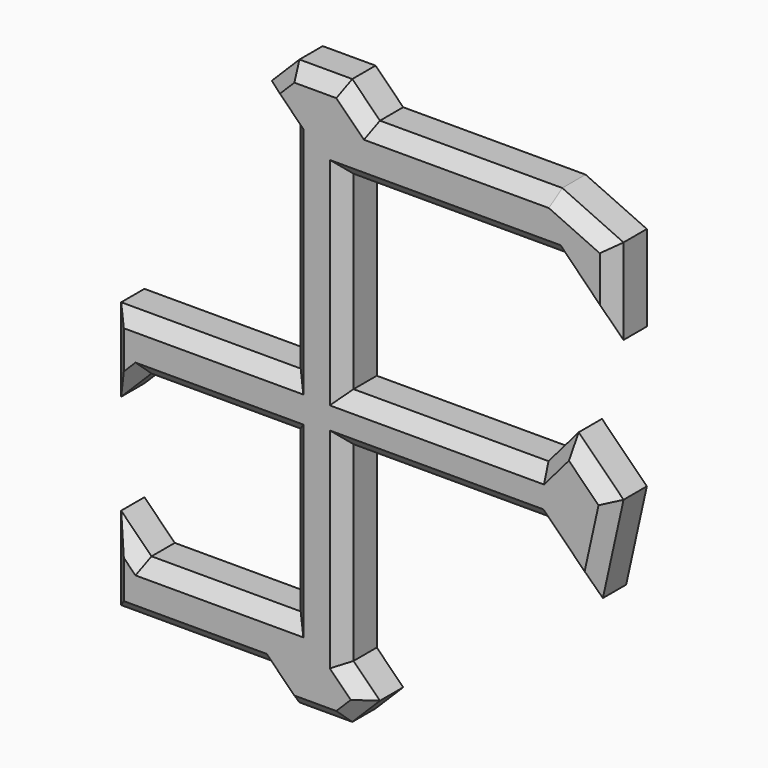
from build123d import *

# Parameters (mm, degrees)
F1_DEPTH = 5.08
F2_SIZE  = 1.5875
F3_SCALE = 0.5


with BuildPart() as f1:
    # F0 (on Front) → F1 (new body)
    with BuildSketch(Plane.XZ):
        Polygon((-6.6455395231, 29.4341069916), (-3.175, 25.9635674685), (-3.175, 0.1128360473), (-24.7444733058, 0.1128360473), (-24.7444733058, -9.883693457), (-21.0979438016, -6.2371639527), (-3.175, -6.2371639527), (-3.175, -25.5762760587), (-21.0979438016, -25.5762760587), (-24.7444733058, -21.9297465545), (-24.7444733058, -31.9262760587), (-22.1278171024, -31.9262760587), (-6.6455395231, -31.9262760587), (-3.3227697615, -35.2490458202), (3.0272302385, -35.2490458202), (6.35, -31.9262760587), (3.175, -28.7512760587), (3.175, -5.8234985377), (26.6026397626, -5.8234985377), (33.1378690898, -12.3587278649), (35.6206595898, -1.1474714229), (30.2332143891, 4.2399737777), (26.6026397626, 0), (3.175, 0), (3.175, 22.7885674685), (28.6609344184, 22.7885674685), (35.6206595898, 15.7537590712), (35.6206595898, 26.0716768982), (28.2596744327, 29.4341069916), (6.35, 29.4341069916), (3.0272302385, 32.7568767531), (-3.3227697615, 32.7568767531), align=None)
    extrude(amount=F1_DEPTH)

    # F2
    f2_edges = [f1.edges().sort_by_distance(p)[0] for p in [
        (17.304837, -5.08, 29.434107),
        (4.688615, -5.08, 31.095492),
        (-0.14777, -5.08, 32.756877),
        (-4.984155, -5.08, 31.095492),
        (-4.91027, -5.08, 27.698837),
        (-3.175, -5.08, 13.038202),
        (-13.959737, -5.08, 0.112836),
        (-24.744473, -5.08, -4.885429),
        (-22.921209, -5.08, -8.060429),
        (-12.136472, -5.08, -6.237164),
        (-3.175, -5.08, -15.90672),
        (-12.136472, -5.08, -25.576276),
        (-22.921209, -5.08, -23.753011),
        (-24.744473, -5.08, -26.928011),
        (-15.695006, -5.08, -31.926276),
        (-4.984155, -5.08, -33.587661),
        (-0.14777, -5.08, -35.249046),
        (4.688615, -5.08, -33.587661),
        (4.7625, -5.08, -30.338776),
        (3.175, -5.08, -17.287387),
        (14.88882, -5.08, -5.823499),
        (29.870254, -5.08, -9.091113),
        (34.379264, -5.08, -6.7531),
        (32.926937, -5.08, 1.546251),
        (28.417927, -5.08, 2.119987),
        (14.88882, -5.08, 0),
        (3.175, -5.08, 11.394284),
        (15.917967, -5.08, 22.788567),
        (32.140797, -5.08, 19.271163),
        (35.62066, -5.08, 20.912718),
        (31.940167, -5.08, 27.752892),
    ]]
    chamfer(f2_edges, length=F2_SIZE)


with BuildPart() as f1_1:
    # F3: moved
    add(f1.part.scale(F3_SCALE))


solid = f1_1.part
